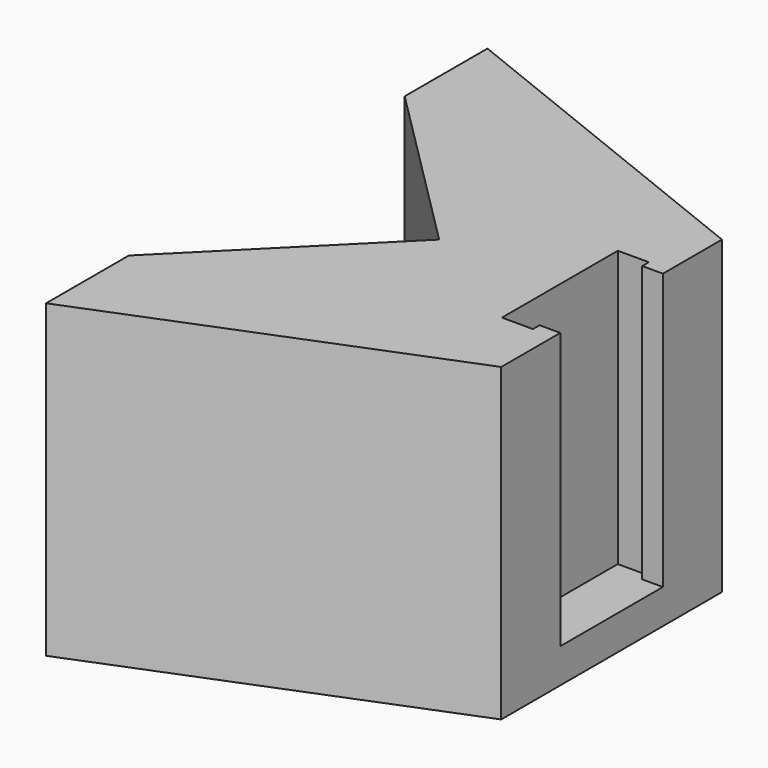
from build123d import *

# Parameters (mm, degrees)
PAD_DEPTH    = 45
POCKET_DEPTH = 40


with BuildPart() as part:
    # Sketch → Pad (new body)
    with BuildSketch(Plane.XY):
        Polygon((-25, 25), (0, 0), (-25, -25), (-25, -40), (25, -20), (25, 20), (-25, 40), align=None)
    extrude(amount=PAD_DEPTH)

    # Sketch001 (on Face9 of Pad) → Pocket (cut)
    with BuildSketch(Plane.XY.offset(45)):
        Polygon((25, 9.302202), (22, 9.302202), (22, 10.5), (17.5, 10.5), (17.5, -10.5), (22, -10.5), (22, -9.302202), (25, -9.302202), align=None)
    extrude(amount=-POCKET_DEPTH, mode=Mode.SUBTRACT)


solid = part.part
